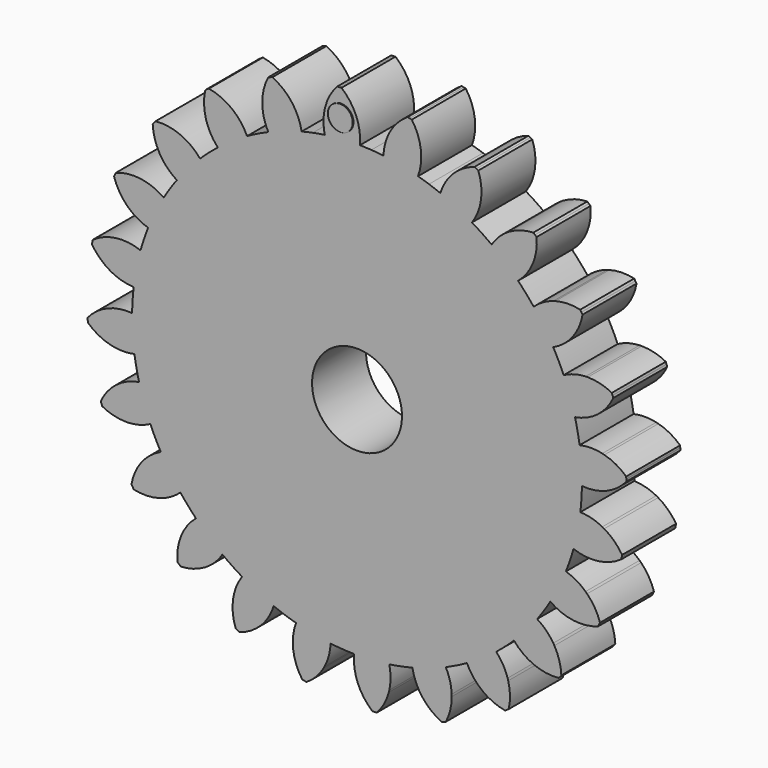
from build123d import *

# Parameters (mm, degrees)
F1_DEPTH = 9.525
F2_COUNT = 24
F2_ANGLE = 345
F4_D     = 25.4
F5_R     = 3.5116697328
F6_DEPTH = 0.254


with BuildPart() as f1:
    # F0 (on Front) → F1 (new body, symmetric)
    with BuildSketch(Plane.XZ):
        with BuildLine():
            Line((-31.75, 54.9926131403), (0, 0))
            Line((0, 0), (-16.435009364, 61.3362899694))
            ThreePointArc((-16.435009364, 61.3362899694), (-24.3003979552, 58.6663503145), (-31.75, 54.9926131403))
        make_face()
        with BuildLine():
            Line((-44.9012806053, 44.9012806053), (0, 0))
            Line((0, 0), (-31.75, 54.9926131403))
            ThreePointArc((-31.75, 54.9926131403), (-38.6563507421, 50.3779371085), (-44.9012806053, 44.9012806053))
        make_face()
        with BuildLine():
            Line((0, 0), (0, 55.245))
            ThreePointArc((0, 55.245), (-1.8403425433, 55.3614126181), (-3.6513473128, 55.7087946836))
            Line((-3.6513473128, 55.7087946836), (0, 0))
        make_face()
        with BuildLine():
            Line((-63.4999718868, 0.0597526459), (0, 0))
            Line((0, 0), (-61.3362899694, 16.435009364))
            ThreePointArc((-61.3362899694, 16.435009364), (-62.952842086, 8.3180330187), (-63.4999718868, 0.0597526459))
        make_face()
        with BuildLine():
            Line((-16.435009364, 61.3362899694), (0, 0))
            Line((0, 0), (-3.6513473128, 55.7087946836))
            ThreePointArc((-3.6513473128, 55.7087946836), (-8.7052871089, 58.122937224), (-12.4789617732, 62.26175))
            ThreePointArc((-12.4789617732, 62.26175), (-14.4643890572, 61.8306675461), (-16.435009364, 61.3362899694))
        make_face()
        with BuildLine():
            Line((-61.3362899694, 16.435009364), (0, 0))
            Line((0, 0), (-54.9926131403, 31.75))
            ThreePointArc((-54.9926131403, 31.75), (-58.6663503145, 24.3003979552), (-61.3362899694, 16.435009364))
        make_face()
        with BuildLine():
            Line((-54.9926131403, 31.75), (0, 0))
            Line((0, 0), (-44.9012806053, 44.9012806053))
            ThreePointArc((-44.9012806053, 44.9012806053), (-50.3779371085, 38.6563507421), (-54.9926131403, 31.75))
        make_face()
        with BuildLine():
            Line((54.9926131403, 31.75), (0, 0))
            Line((0, 0), (61.3362899694, 16.435009364))
            ThreePointArc((61.3362899694, 16.435009364), (58.6663503145, 24.3003979552), (54.9926131403, 31.75))
        make_face()
        with BuildLine():
            Line((31.75, 54.9926131403), (0, 0))
            Line((0, 0), (44.9012806053, 44.9012806053))
            ThreePointArc((44.9012806053, 44.9012806053), (38.6563507421, 50.3779371085), (31.75, 54.9926131403))
        make_face()
        with BuildLine():
            Line((61.3362899694, 16.435009364), (0, 0))
            Line((0, 0), (63.5, 0))
            ThreePointArc((63.5, 0), (62.9567486972, 8.288413206), (61.3362899694, 16.435009364))
        make_face()
        with BuildLine():
            ThreePointArc((12.4789617732, 62.26175), (7.158199276, 57.1194773035), (0, 55.245))
            Line((0, 55.245), (0, 0))
            Line((0, 0), (16.435009364, 61.3362899694))
            ThreePointArc((16.435009364, 61.3362899694), (14.4643890572, 61.8306675461), (12.4789617732, 62.26175))
        make_face()
        with BuildLine():
            Line((16.435009364, 61.3362899694), (0, 0))
            Line((0, 0), (31.75, 54.9926131403))
            ThreePointArc((31.75, 54.9926131403), (24.3003979552, 58.6663503145), (16.435009364, 61.3362899694))
        make_face()
        with BuildLine():
            Line((44.9012806053, 44.9012806053), (0, 0))
            Line((0, 0), (54.9926131403, 31.75))
            ThreePointArc((54.9926131403, 31.75), (50.3779371085, 38.6563507421), (44.9012806053, 44.9012806053))
        make_face()
        with BuildLine():
            Line((-54.9926131403, -31.75), (0, 0))
            Line((0, 0), (-61.3362899694, -16.435009364))
            ThreePointArc((-61.3362899694, -16.435009364), (-58.6663503145, -24.3003979552), (-54.9926131403, -31.75))
        make_face()
        with BuildLine():
            Line((-31.75, -54.9926131403), (0, 0))
            Line((0, 0), (-44.9012806053, -44.9012806053))
            ThreePointArc((-44.9012806053, -44.9012806053), (-38.6563507421, -50.3779371085), (-31.75, -54.9926131403))
        make_face()
        with BuildLine():
            Line((-44.9012806053, -44.9012806053), (0, 0))
            Line((0, 0), (-54.9926131403, -31.75))
            ThreePointArc((-54.9926131403, -31.75), (-50.3779371085, -38.6563507421), (-44.9012806053, -44.9012806053))
        make_face()
        with BuildLine():
            Line((0, -63.5), (0, 0))
            Line((0, 0), (-16.435009364, -61.3362899694))
            ThreePointArc((-16.435009364, -61.3362899694), (-8.288413206, -62.9567486972), (0, -63.5))
        make_face()
        with BuildLine():
            Line((-16.435009364, -61.3362899694), (0, 0))
            Line((0, 0), (-31.75, -54.9926131403))
            ThreePointArc((-31.75, -54.9926131403), (-24.3003979552, -58.6663503145), (-16.435009364, -61.3362899694))
        make_face()
        with BuildLine():
            Line((-61.3362899694, -16.435009364), (0, 0))
            Line((0, 0), (-63.4999718868, 0.0597526459))
            ThreePointArc((-63.4999718868, 0.0597526459), (-62.9606413722, -8.2587915585), (-61.3362899694, -16.435009364))
        make_face()
        with BuildLine():
            Line((0, 55.245), (0, 63.5))
            ThreePointArc((0, 63.5), (-2.0776617592, 63.4660013047), (-4.1530987061, 63.3640416257))
            Line((-4.1530987061, 63.3640416257), (-3.6513473128, 55.7087946836))
            ThreePointArc((-3.6513473128, 55.7087946836), (-1.8403425433, 55.3614126181), (0, 55.245))
        make_face()
        with BuildLine():
            Line((-3.6513473128, 55.7087946836), (-4.1530987061, 63.3640416257))
            ThreePointArc((-4.1530987061, 63.3640416257), (-6.6306628061, 63.1528646282), (-9.0980596657, 62.8448511043))
            ThreePointArc((-9.0980596657, 62.8448511043), (-10.7924494564, 62.576137902), (-12.4789617732, 62.26175))
            ThreePointArc((-12.4789617732, 62.26175), (-8.7052871089, 58.122937224), (-3.6513473128, 55.7087946836))
        make_face()
        with BuildLine():
            ThreePointArc((0.8173253887, 63.4947397759), (0.4086711578, 63.4986849304), (0, 63.5))
            Line((0, 63.5), (0, 55.245))
            ThreePointArc((0, 55.245), (7.158199276, 57.1194773035), (12.4789617732, 62.26175))
            ThreePointArc((12.4789617732, 62.26175), (6.6766667597, 63.1480175538), (0.8173253887, 63.4947397759))
        make_face()
        with BuildLine():
            Line((0, 63.5), (0, 69.85))
            Line((0, 69.85), (-4.4715384401, 68.2224931064))
            Line((-4.4715384401, 68.2224931064), (-4.1530987061, 63.3640416257))
            ThreePointArc((-4.1530987061, 63.3640416257), (-2.0776617592, 63.4660013047), (0, 63.5))
        make_face()
        with BuildLine():
            Line((-4.1530987061, 63.3640416257), (-4.4715384401, 68.2224931064))
            Line((-4.4715384401, 68.2224931064), (-9.4600431371, 66.4068258832))
            ThreePointArc((-9.4600431371, 66.4068258832), (-9.3886138378, 64.6147042793), (-9.0980596657, 62.8448511043))
            ThreePointArc((-9.0980596657, 62.8448511043), (-6.6306628061, 63.1528646282), (-4.1530987061, 63.3640416257))
        make_face()
        with BuildLine():
            Line((-4.4715384401, 68.2224931064), (-4.5684085767, 69.7004457882))
            ThreePointArc((-4.5684085767, 69.7004457882), (-6.846497252, 69.5136531581), (-9.1172545266, 69.252423567))
            ThreePointArc((-9.1172545266, 69.252423567), (-9.3586222424, 67.8380539167), (-9.4600431371, 66.4068258832))
            Line((-9.4600431371, 66.4068258832), (-4.4715384401, 68.2224931064))
        make_face()
        with BuildLine():
            ThreePointArc((-9.1172545266, 69.252423567), (-6.846497252, 69.5136531581), (-4.5684085767, 69.7004457882))
            Line((-4.5684085767, 69.7004457882), (-4.5782108776, 69.85))
            Line((-4.5782108776, 69.85), (-8.9715081429, 69.85))
            ThreePointArc((-8.9715081429, 69.85), (-9.0475275684, 69.5519791367), (-9.1172545266, 69.252423567))
        make_face()
        with BuildLine():
            Line((-8.9715081429, 69.85), (-4.5782108776, 69.85))
            Line((-4.5782108776, 69.85), (-4.9837184473, 76.0368499508))
            ThreePointArc((-4.9837184473, 76.0368499508), (-5.2884845579, 76.0162609649), (-5.5931656854, 75.9944504396))
            ThreePointArc((-5.5931656854, 75.9944504396), (-7.6565566905, 73.1279787809), (-8.9715081429, 69.85))
        make_face()
        with BuildLine():
            Line((-4.5782108776, 69.85), (0, 69.85))
            ThreePointArc((0, 69.85), (-1.7745886081, 73.2519712977), (-4.3739508681, 76.0743620006))
            ThreePointArc((-4.3739508681, 76.0743620006), (-4.6788722512, 76.0562170664), (-4.9837184473, 76.0368499508))
            Line((-4.9837184473, 76.0368499508), (-4.5782108776, 69.85))
        make_face()
        with BuildLine():
            ThreePointArc((0.8173253887, 63.4947397759), (0.7614871945, 66.7177452796), (0, 69.85))
            Line((0, 69.85), (0, 63.5))
            ThreePointArc((0, 63.5), (0.4086711578, 63.4986849304), (0.8173253887, 63.4947397759))
        make_face()
        with BuildLine():
            ThreePointArc((-4.5684085767, 69.7004457882), (-2.2854279351, 69.8126014352), (0, 69.85))
            Line((0, 69.85), (-4.5782108776, 69.85))
            Line((-4.5782108776, 69.85), (-4.5684085767, 69.7004457882))
        make_face()
        with BuildLine():
            Line((-4.4715384401, 68.2224931064), (0, 69.85))
            ThreePointArc((0, 69.85), (-2.2854279351, 69.8126014352), (-4.5684085767, 69.7004457882))
            Line((-4.5684085767, 69.7004457882), (-4.4715384401, 68.2224931064))
        make_face()
        with BuildLine():
            Line((54.9926131403, -31.75), (0, 0))
            Line((0, 0), (44.9012806053, -44.9012806053))
            ThreePointArc((44.9012806053, -44.9012806053), (50.3779371085, -38.6563507421), (54.9926131403, -31.75))
        make_face()
        with BuildLine():
            Line((61.3362899694, -16.435009364), (0, 0))
            Line((0, 0), (54.9926131403, -31.75))
            ThreePointArc((54.9926131403, -31.75), (58.6663503145, -24.3003979552), (61.3362899694, -16.435009364))
        make_face()
        with BuildLine():
            Line((63.5, 0), (0, 0))
            Line((0, 0), (61.3362899694, -16.435009364))
            ThreePointArc((61.3362899694, -16.435009364), (62.9567486972, -8.288413206), (63.5, 0))
        make_face()
        with BuildLine():
            Line((44.9012806053, -44.9012806053), (0, 0))
            Line((0, 0), (31.75, -54.9926131403))
            ThreePointArc((31.75, -54.9926131403), (38.6563507421, -50.3779371085), (44.9012806053, -44.9012806053))
        make_face()
        with BuildLine():
            Line((16.435009364, -61.3362899694), (0, 0))
            Line((0, 0), (0, -63.5))
            ThreePointArc((0, -63.5), (8.288413206, -62.9567486972), (16.435009364, -61.3362899694))
        make_face()
        with BuildLine():
            Line((31.75, -54.9926131403), (0, 0))
            Line((0, 0), (16.435009364, -61.3362899694))
            ThreePointArc((16.435009364, -61.3362899694), (24.3003979552, -58.6663503145), (31.75, -54.9926131403))
        make_face()
    extrude(amount=F1_DEPTH, both=True)

    # F2: F1 ×24 about axis
    f2_axis = Axis((0, 0, 0), (0, -1, 0))


with BuildPart() as f1_1:
    add(f1.part)
    for i in range(1, F2_COUNT):
        add(f1.part.rotate(f2_axis, i * F2_ANGLE / (F2_COUNT - 1)))

    # F4 (through all)
    with Locations(Plane.XZ.offset(9.525)):
        with Locations((0, 0)):
            Hole(F4_D / 2)

    # F5 (on face) → F6 (join)
    with BuildSketch(Plane.XZ.offset(9.525)):
        with Locations((-4.5133861713, 68.6239600182)):
            Circle(F5_R)
    extrude(amount=F6_DEPTH)


solid = f1_1.part
